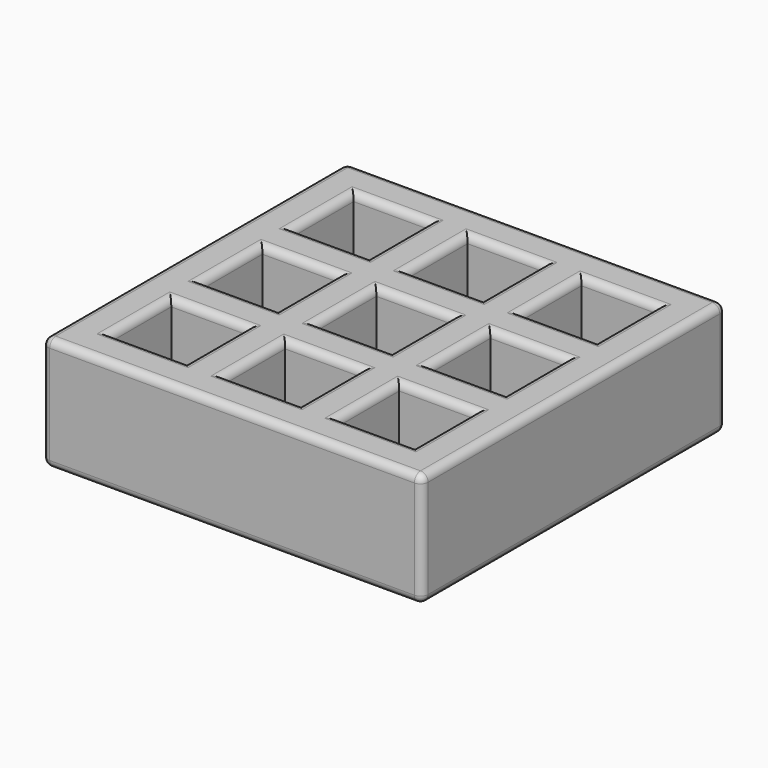
from build123d import *

# Parameters (mm, degrees)
F0_W     = 254
F0_H     = 254
F0_W_2   = 50.8
F0_H_2   = 50.8
F1_DEPTH = 76.2
F2_R     = 5.08


with BuildPart() as f1:
    # F0 (on Top) → F1 (new body)
    with BuildSketch(Plane.XY):
        with Locations((0.930347, 19.759098)):
            Rectangle(F0_W, F0_H)
        with Locations((-75.269653, -56.440902)):
            Rectangle(F0_W_2, F0_H_2, mode=Mode.SUBTRACT)
        with Locations((0.930347, -56.440902)):
            Rectangle(F0_W_2, F0_H_2, mode=Mode.SUBTRACT)
        with Locations((77.130347, -56.440902)):
            Rectangle(F0_W_2, F0_H_2, mode=Mode.SUBTRACT)
        with Locations((-75.269653, 19.759098)):
            Rectangle(F0_W_2, F0_H_2, mode=Mode.SUBTRACT)
        with Locations((-75.269653, 95.959098)):
            Rectangle(F0_W_2, F0_H_2, mode=Mode.SUBTRACT)
        with Locations((0.930347, 19.759098)):
            Rectangle(F0_W_2, F0_H_2, mode=Mode.SUBTRACT)
        with Locations((77.130347, 19.759098)):
            Rectangle(F0_W_2, F0_H_2, mode=Mode.SUBTRACT)
        with Locations((0.930347, 95.959098)):
            Rectangle(F0_W_2, F0_H_2, mode=Mode.SUBTRACT)
        with Locations((77.130347, 95.959098)):
            Rectangle(F0_W_2, F0_H_2, mode=Mode.SUBTRACT)
    extrude(amount=F1_DEPTH)

    # F2
    f2_edges = [f1.edges().sort_by_distance(p)[0] for p in [
        (-126.069653, 19.759098, 76.2),
        (0.930347, -107.240902, 76.2),
        (-126.069653, -107.240902, 38.1),
        (0.930347, -107.240902, 0),
        (-126.069653, 19.759098, 0),
        (-126.069653, 146.759098, 38.1),
        (0.930347, 146.759098, 76.2),
        (127.930347, 19.759098, 76.2),
        (-75.269653, -31.040902, 76.2),
        (-49.869653, -56.440902, 76.2),
        (-75.269653, -81.840902, 76.2),
        (-100.669653, -56.440902, 76.2),
        (-24.469653, -56.440902, 76.2),
        (0.930347, -31.040902, 76.2),
        (26.330347, -56.440902, 76.2),
        (0.930347, -81.840902, 76.2),
        (77.130347, -31.040902, 76.2),
        (102.530347, -56.440902, 76.2),
        (77.130347, -81.840902, 76.2),
        (51.730347, -56.440902, 76.2),
        (-75.269653, 45.159098, 76.2),
        (-49.869653, 19.759098, 76.2),
        (-75.269653, -5.640902, 76.2),
        (-100.669653, 19.759098, 76.2),
        (-100.669653, 95.959098, 76.2),
        (-75.269653, 121.359098, 76.2),
        (-49.869653, 95.959098, 76.2),
        (-75.269653, 70.559098, 76.2),
        (-24.469653, 19.759098, 76.2),
        (0.930347, 45.159098, 76.2),
        (26.330347, 19.759098, 76.2),
        (0.930347, -5.640902, 76.2),
        (77.130347, 45.159098, 76.2),
        (102.530347, 19.759098, 76.2),
        (77.130347, -5.640902, 76.2),
        (51.730347, 19.759098, 76.2),
        (-24.469653, 95.959098, 76.2),
        (0.930347, 121.359098, 76.2),
        (26.330347, 95.959098, 76.2),
        (0.930347, 70.559098, 76.2),
        (77.130347, 121.359098, 76.2),
        (102.530347, 95.959098, 76.2),
        (77.130347, 70.559098, 76.2),
        (51.730347, 95.959098, 76.2),
        (127.930347, -107.240902, 38.1),
        (127.930347, 146.759098, 38.1),
        (127.930347, 19.759098, 0),
        (0.930347, 146.759098, 0),
    ]]
    fillet(f2_edges, radius=F2_R)


solid = f1.part
